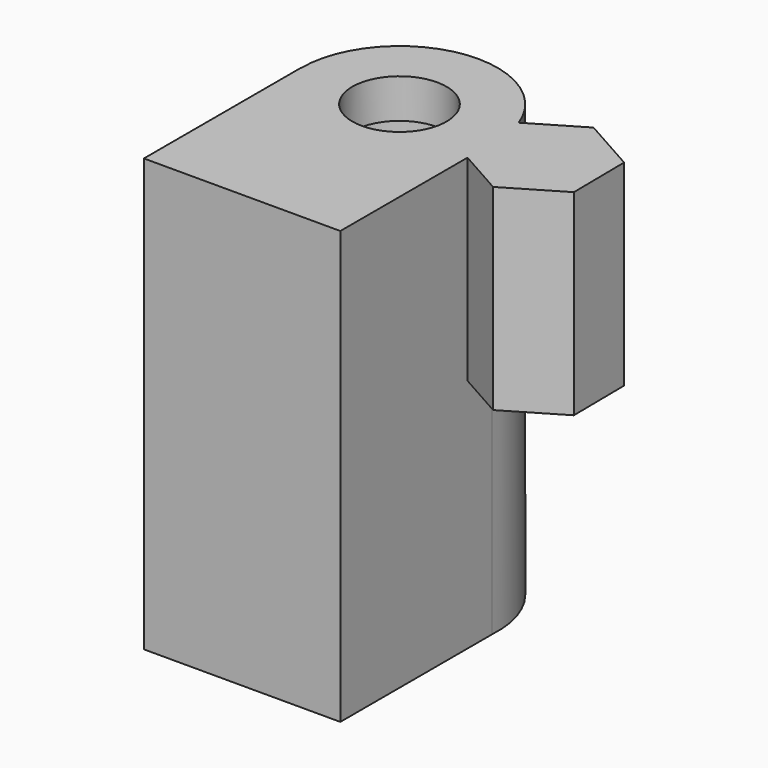
from build123d import *

# Parameters (mm, degrees)
F7_R     = 12.5
F0_DEPTH = 55
F1_W     = 25
F1_H     = 25
F8_DEPTH = 55
F2_D     = 12
F10_R    = 10.5
F3_DEPTH = 50
F5_DEPTH = 25
F6_DEPTH = 20


with BuildPart() as f0:
    # F7 (on Top) → F0 (new body)
    with BuildSketch(Plane.XY):
        Circle(F7_R)
    extrude(amount=F0_DEPTH)

    # F1 (on Top) → F8 (join)
    with BuildSketch(Plane.XY):
        with Locations((-0.0282753837, -12.5)):
            Rectangle(F1_W, F1_H)
    extrude(amount=F8_DEPTH)

    # F2 (through all)
    with Locations(Plane(origin=(0, 0, 0), x_dir=(1, 0, 0), z_dir=(0, 0, -1))):
        with Locations((0, 0)):
            Hole(F2_D / 2)

    # F10 (on Top) → F3 (cut)
    with BuildSketch(Plane.XY):
        Circle(F10_R)
    extrude(amount=F3_DEPTH, mode=Mode.SUBTRACT)

    # F11 (on face) → F5 (join)
    with BuildSketch(Plane.XY.offset(55)):
        with BuildLine():
            Line((12.4717246163, -4.7753756192), (18.3970628421, -8.107226411))
            Line((18.3970628421, -8.107226411), (25.3720879555, -3.9738714695))
            Line((25.3720879555, -3.9738714695), (25.28001013, 4.1333549415))
            Line((25.28001013, 4.1333549415), (18.2129071911, 8.107226411))
            Line((18.2129071911, 8.107226411), (11.7462114787, 4.2751041973))
            ThreePointArc((11.7462114787, 4.2751041973), (12.3761431106, 1.7553010303), (12.4717246163, -0.8402886979))
            Line((12.4717246163, -0.8402886979), (12.4717246163, -4.7753756192))
        make_face()
    extrude(amount=-F5_DEPTH)

    # F12 (on face) → F6 (cut)
    with BuildSketch(Plane(origin=(0, 0, 30), x_dir=(1, 0, 0), z_dir=(0, 0, -1))):
        Polygon((12.8416223451, -3.0601453381), (18.1419495493, -6.1202906762), (23.4422767535, -3.0601453381), (23.4422767535, 3.0601453381), (18.1419495493, 6.1202906762), (12.8416223451, 3.0601453381), align=None)
    extrude(amount=-F6_DEPTH, mode=Mode.SUBTRACT)


solid = f0.part
